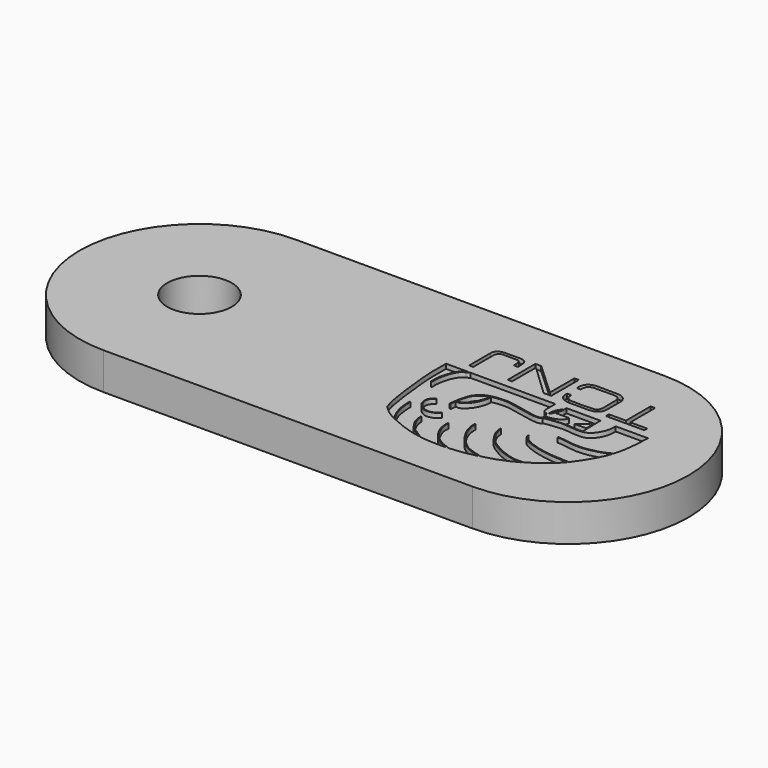
from build123d import *

# Parameters (mm, degrees)
F0_R     = 4.445
F1_DEPTH = 5.08
F4_DEPTH = 0.635
F5_DEPTH = 0.635


with BuildPart() as f1:
    # F0 (on Top) → F1 (new body)
    with BuildSketch(Plane.XY):
        with BuildLine():
            Line((-50.8, 0), (0, 0))
            ThreePointArc((0, 0), (16.51, 16.51), (0, 33.02))
            Line((0, 33.02), (-50.8, 33.02))
            ThreePointArc((-50.8, 33.02), (-67.31, 16.51), (-50.8, 0))
        make_face()
        with Locations((-50.8, 16.51)):
            Circle(F0_R, mode=Mode.SUBTRACT)
    extrude(amount=F1_DEPTH)

    # F2 (on face) → F4 (cut)
    with BuildSketch(Plane.XY.offset(5.08)):
        Polygon((3.8959742524, 26.5396423638), (3.2803672366, 26.5396423638), (3.2803672366, 22.2951937467), (0.9259406943, 22.2951937467), (0.9259406943, 21.7767879367), (6.2180003151, 21.7767879367), (6.2180003151, 22.2735926509), (3.8959742524, 22.2735926509), align=None)
        Polygon((-11.7695769295, 26.5254974365), (-12.5778550282, 26.5254974365), (-12.5778550282, 21.7757243663), (-11.9784576818, 21.7757243663), (-11.9784576818, 25.8897729218), (-7.6464465819, 21.7757243663), (-6.5929596312, 21.7757243663), (-6.5929596312, 26.5254974365), (-7.1923574433, 26.5254974365), (-7.1923574433, 22.302467376), align=None)
        with BuildLine():
            Line((-3.4844169859, 20.5657798797), (-3.5209953785, 20.5657798797))
            add(Edge.make_bspline(
                [(-3.5209953785, 20.1260484755), (-3.5209953785, 20.2726256102), (-3.5209953785, 20.419202745), (-3.5209953785, 20.5657798797)],
                knots=[0, 0, 0, 0, 0.4397314042, 0.4397314042, 0.4397314042, 0.4397314042], degree=3))
            add(Edge.make_bspline(
                [(-3.5209953785, 20.1260484755), (-3.5125215916, 20.1207992214), (-3.5059205511, 20.1117839715), (-3.5009771135, 20.0996034778)],
                knots=[0.5300515962, 0.5300515962, 0.5300515962, 0.5300515962, 0.545285906, 0.545285906, 0.545285906, 0.545285906], degree=3))
            add(Edge.make_bspline(
                [(-3.5009771135, 20.0996034778), (-3.4954461514, 20.2550000435), (-3.489947948, 20.4103833141), (-3.4844169859, 20.5657798797)],
                knots=[0, 0, 0, 0, 0.4664704444, 0.4664704444, 0.4664704444, 0.4664704444], degree=3))
        make_face()
        with BuildLine():
            Line((-17.0272719115, 20.5657798797), (-20.1008506119, 20.5657798797))
            add(Edge.make_bspline(
                [(-20.1008506119, 20.5657798797), (-20.0976057477, 20.2518023674), (-20.089931667, 19.5092477759), (-20.1818699933, 17.6991338011), (-19.6338988516, 12.7321644458), (-19.249263343, 10.1770386249), (-18.9217182084, 9.1986725528), (-18.7855158001, 8.7918406352)],
                knots=[0, 0, 0, 0, 0.1336295588, 0.3160329595, 0.6211985169, 0.8424837716, 1, 1, 1, 1], degree=3))
            add(Edge.make_bspline(
                [(-18.7855158001, 8.7918406352), (-18.4364501478, 8.4448847547), (-17.8097228189, 7.8219453998), (-16.9379454335, 7.3513407769), (-16.5344193103, 7.1553484233)],
                knots=[0, 0, 0, 0, 0.0528862402, 0.0949542066, 0.0949542066, 0.0949542066, 0.0949542066], degree=3))
            add(Edge.make_bspline(
                [(-17.6477935165, 11.2098213285), (-17.6432306992, 10.9404450067), (-17.6334287709, 10.3614181667), (-17.4898095125, 9.2662840687), (-17.1821068853, 8.3674512809), (-16.8816606706, 7.7485775416), (-16.6504011474, 7.3528181668), (-16.5344193103, 7.1553484233)],
                knots=[0, 0, 0, 0, 0.199586321, 0.4289612208, 0.6411573149, 0.8205642233, 1, 1, 1, 1], degree=3))
            add(Edge.make_bspline(
                [(-17.6477935165, 11.2098213285), (-17.5971477749, 11.2234490665), (-17.4724389543, 11.2570056712), (-17.5240421858, 10.9169212611), (-17.5129243505, 10.6843503152), (-17.499469004, 10.3888749345), (-17.4547077805, 10.1214148331), (-17.4253120487, 9.7721919921), (-17.3876432187, 9.5684335846), (-17.2886543053, 9.1477056248), (-17.1871516213, 8.6995724047), (-17.0386427388, 8.2984228965), (-16.8763070803, 7.9657463067), (-16.6932038089, 7.6165407583), (-16.5005710276, 7.2757459948), (-16.3921811837, 7.0870694295)],
                knots=[0, 0, 0, 0, 0.0473613237, 0.1165979451, 0.1850668233, 0.2559309986, 0.3270143483, 0.4045777313, 0.4660095331, 0.552388757, 0.6445833344, 0.7315615457, 0.8117851248, 0.8951023115, 1, 1, 1, 1], degree=3))
            add(Edge.make_bspline(
                [(-16.3921811837, 7.0870694295), (-16.2835296732, 7.035484135), (-15.5695250707, 6.7043616471), (-14.1749353909, 6.1058488683), (-12.6451110082, 5.6895258499), (-11.8734370917, 5.5518033914)],
                knots=[0.0998740707, 0.0998740707, 0.0998740707, 0.0998740707, 0.1111002425, 0.1729905937, 0.2394500603, 0.2394500603, 0.2394500603, 0.2394500603], degree=3))
            add(Edge.make_bspline(
                [(-14.5732332021, 9.3003567308), (-14.5409687138, 8.9795326444), (-14.4797865215, 8.3711634427), (-14.1903751601, 7.7134181332), (-13.4834811075, 6.6021514199), (-12.7620809029, 6.1697490383), (-12.180696926, 5.7654659125), (-11.8734370917, 5.5518033914)],
                knots=[0, 0, 0, 0, 0.1952458387, 0.3702388944, 0.5998494025, 0.7885215088, 1, 1, 1, 1], degree=3))
            add(Edge.make_bspline(
                [(-14.5732332021, 9.3003567308), (-14.531352794, 9.3102664443), (-14.4293106922, 9.3344115765), (-14.4628885161, 9.0586704722), (-14.4062481322, 8.6685886785), (-14.3064258053, 8.3839482517), (-14.1602166183, 7.9777081243), (-13.9919271042, 7.6621536266), (-13.8498664798, 7.3998245088), (-13.6910261105, 7.1637023803), (-13.488956809, 6.8693974321), (-13.1626072296, 6.5746591029), (-12.8828368712, 6.3295756522), (-12.5294233921, 6.1708838371), (-12.2940200964, 5.9544992529), (-11.9514026398, 5.7572063558), (-11.7462669955, 5.5926052754), (-11.6421537077, 5.5127331691)],
                knots=[0, 0, 0, 0, 0.0376484099, 0.0917016962, 0.1660598864, 0.2305953557, 0.3063006735, 0.3763523015, 0.439042774, 0.5004130765, 0.5696997164, 0.6466220038, 0.7178737979, 0.7889260047, 0.8544362849, 0.9268924199, 1, 1, 1, 1], degree=3))
            add(Edge.make_bspline(
                [(-11.6421537077, 5.5127331691), (-10.9619756175, 5.404277864), (-9.7772156071, 5.3151843267), (-8.4711610966, 5.3270091623), (-7.9032367917, 5.3554853854)],
                knots=[0.2461053583, 0.2461053583, 0.2461053583, 0.2461053583, 0.3049431805, 0.3501941998, 0.3501941998, 0.3501941998, 0.3501941998], degree=3))
            add(Edge.make_bspline(
                [(-7.9032367917, 5.3554853854), (-8.3423934262, 5.51025406), (-9.1933444088, 5.8192559494), (-10.1367883833, 6.6575948549), (-10.7141035863, 7.434052346), (-11.3044473223, 8.6130963102), (-11.3260596402, 9.4601064371), (-11.3368527964, 9.8829055205)],
                knots=[0, 0, 0, 0, 0.2127333474, 0.4127366491, 0.5912848478, 0.795890521, 1, 1, 1, 1], degree=3))
            add(Edge.make_bspline(
                [(-11.3368527964, 9.8829055205), (-11.2914570194, 9.893360793), (-11.1838900893, 9.9181349381), (-11.2476755629, 9.6491354067), (-11.201252421, 9.2984248371), (-11.1814995048, 8.9615811835), (-11.0572501427, 8.6001524075), (-10.9663464006, 8.2600597835), (-10.7128817418, 7.8069855296), (-10.5251787396, 7.3401572638), (-10.1588029771, 6.9591051541), (-9.9366250615, 6.6613394337), (-9.6046589896, 6.3875277816), (-9.3374464424, 6.1386088838), (-9.0435103707, 6.0165630221), (-8.6060304939, 5.7515402829), (-8.3079082792, 5.6668984739), (-7.898945806, 5.5119535083), (-7.7110473289, 5.4153977433), (-7.6245295565, 5.3713576571)],
                knots=[0, 0, 0, 0, 0.0324372942, 0.0768579638, 0.136624642, 0.1935678486, 0.2529715568, 0.3110420881, 0.380726384, 0.4507210065, 0.5206539168, 0.5804460709, 0.6440829351, 0.7022873416, 0.7577033874, 0.82645968, 0.8821161692, 0.9457621415, 1, 1, 1, 1], degree=3))
            add(Edge.make_bspline(
                [(-7.6245295565, 5.3713576571), (-7.4127180059, 5.3848823798), (-6.3257212999, 5.4716849077), (-5.137128338, 5.6784233187), (-4.0907214022, 5.9259506898), (-3.9348198087, 5.9643292617)],
                knots=[0.3575988283, 0.3575988283, 0.3575988283, 0.3575988283, 0.3744923424, 0.4445001006, 0.4566898529, 0.4566898529, 0.4566898529, 0.4566898529], degree=3))
            add(Edge.make_bspline(
                [(-8.94193165, 11.5010952577), (-8.9299977481, 11.2441086985), (-8.9054370845, 10.7152159293), (-8.6770360567, 9.8563878542), (-8.2124047565, 8.9603039047), (-7.5314080686, 7.9455663393), (-6.7651803256, 7.0913888776), (-5.5974498737, 6.4164682359), (-4.7516756821, 6.1568515415), (-4.2034372982, 6.0249226263), (-3.9348198087, 5.9643292617)],
                knots=[0, 0, 0, 0, 0.1102915577, 0.2269106467, 0.3526560052, 0.4901779874, 0.6251533603, 0.7687366588, 0.8866218586, 1, 1, 1, 1], degree=3))
            add(Edge.make_bspline(
                [(-8.94193165, 11.5010952577), (-8.8863857194, 11.5161087505), (-8.7504818932, 11.5528421545), (-8.7944538498, 11.1811517577), (-8.768604581, 10.9188425147), (-8.6782070365, 10.4850038321), (-8.5909527515, 10.0771711489), (-8.4032328099, 9.5928802666), (-8.2200885483, 9.2109394657), (-8.0582572094, 8.9729470039), (-7.8140180814, 8.6414128663), (-7.5497818064, 8.1920423419), (-7.279492636, 7.8916505949), (-6.9750681574, 7.5653125645), (-6.7082386794, 7.3495928548), (-6.4589850146, 7.1277345541), (-6.1470216328, 6.8841307056), (-5.8325818803, 6.6820914054), (-5.5376241968, 6.58448582), (-5.1776362739, 6.4422244522), (-4.7409726714, 6.3043316262), (-4.2241570114, 6.1491234993), (-3.8609031002, 6.0689161101), (-3.6775354632, 6.0290396349)],
                knots=[0, 0, 0, 0, 0.0285581683, 0.0698705283, 0.1115177238, 0.161442978, 0.2116237121, 0.2669304425, 0.3164795151, 0.3570195673, 0.4059599553, 0.4612929192, 0.5104270744, 0.561162134, 0.6059361025, 0.6498993961, 0.6982408519, 0.7448186675, 0.7871862355, 0.8343857176, 0.8863308235, 0.942613431, 1, 1, 1, 1], degree=3))
            add(Edge.make_bspline(
                [(-3.6775354632, 6.0290396349), (-2.9715350186, 6.2104328866), (-1.3827322824, 6.6897603661), (-0.0314328843, 7.3367061559), (0.611504016, 7.7118282206)],
                knots=[0.463381065, 0.463381065, 0.463381065, 0.463381065, 0.5183677465, 0.5857584535, 0.5857584535, 0.5857584535, 0.5857584535], degree=3))
            add(Edge.make_bspline(
                [(-6.1262813397, 12.407281436), (-6.0854654696, 12.0804402385), (-6.0016217831, 11.4090452439), (-5.4202277417, 10.4602080885), (-4.8172661864, 9.564151111), (-3.8788921869, 9.0083250417), (-2.7802106055, 8.3050292912), (-1.4866619491, 7.8959169438), (-0.3186171575, 7.629141531), (0.3153171701, 7.6854975548), (0.611504016, 7.7118282206)],
                knots=[0, 0, 0, 0, 0.1175322759, 0.2414340124, 0.3631342228, 0.4852283723, 0.6201406714, 0.7584701774, 0.8871524175, 1, 1, 1, 1], degree=3))
            add(Edge.make_bspline(
                [(-6.1262813397, 12.407281436), (-6.0702699892, 12.4215704428), (-5.9347401843, 12.4561453331), (-5.9425967086, 12.0942191021), (-5.8746314136, 11.7410246111), (-5.777642035, 11.401803881), (-5.5994869987, 10.9669057319), (-5.4135418749, 10.753686915), (-5.2131830245, 10.3928535926), (-4.9234733005, 10.0453165076), (-4.6321850296, 9.6873086376), (-4.3435065437, 9.4724006559), (-4.100814533, 9.2956051497), (-3.8089554719, 9.1338571864), (-3.5308042475, 8.9790153997), (-3.2258754459, 8.7752306582), (-2.786816085, 8.5601805816), (-2.2249526472, 8.294960515), (-1.7107307641, 8.1412346937), (-1.206985109, 7.9573129575), (-0.6300405665, 7.854206569), (-0.1362091758, 7.8008514494), (0.389076208, 7.8001572874), (0.703400262, 7.8355565073), (0.854734614, 7.8574876446)],
                knots=[0, 0, 0, 0, 0.0270101914, 0.0653379727, 0.1093208433, 0.1520881476, 0.2001602669, 0.2381864077, 0.2831164857, 0.3316319934, 0.3800069231, 0.4224034085, 0.4612715767, 0.5021439243, 0.5422305605, 0.5848779558, 0.6348058529, 0.6910646432, 0.7432714002, 0.7953230431, 0.8495941823, 0.9000123633, 0.9513161845, 1, 1, 1, 1], degree=3))
            add(Edge.make_bspline(
                [(0.854734614, 7.8574876446), (1.326742039, 8.1474567885), (2.3074165662, 8.8479489436), (3.5919846077, 9.8459937814), (4.2715076555, 10.6191389839), (4.3900452351, 10.7616474638)],
                knots=[0.594419022, 0.594419022, 0.594419022, 0.594419022, 0.6457412935, 0.7125027921, 0.7270891722, 0.7270891722, 0.7270891722, 0.7270891722], degree=3))
            add(Edge.make_bspline(
                [(-2.8251744807, 13.0221936852), (-2.7822775445, 12.8943941395), (-2.6810350941, 12.5927697174), (-2.1459690578, 11.9763376397), (-0.4404365227, 11.3637066071), (0.6070768854, 11.1418823517), (2.0512171449, 10.8678420634), (3.5445419148, 10.799605626), (4.3900452351, 10.7616474638)],
                knots=[0, 0, 0, 0, 0.0975192655, 0.2301366453, 0.4310036057, 0.5890364082, 0.7671763165, 1, 1, 1, 1], degree=3))
            add(Edge.make_bspline(
                [(-2.8251744807, 13.0221936852), (-2.7704692713, 13.0351403814), (-2.6496555642, 13.0637325096), (-2.6386359101, 12.8060747505), (-2.5260739116, 12.5928584463), (-2.3092140143, 12.4064941266), (-2.106662511, 12.2004984414), (-1.6959262247, 12.0721158467), (-1.3962880884, 11.8507674305), (-1.0262906929, 11.7038148039), (-0.5631132212, 11.5793329316), (-0.2579838615, 11.5192524415), (-0.0028879638, 11.3630065855), (0.3229721648, 11.3295264124), (0.7443861846, 11.2526925719), (1.223948411, 11.1843075336), (1.7828223563, 11.0775949694), (2.2439674263, 11.0326402275), (2.802016824, 10.9893555251), (3.4783704016, 10.9416904828), (4.1460988736, 10.9230475633), (4.5150875531, 10.9148793008)],
                knots=[0, 0, 0, 0, 0.0312503769, 0.068997054, 0.110574262, 0.1544693683, 0.1991262181, 0.2530231259, 0.3038377074, 0.3564886887, 0.4142196331, 0.4606655881, 0.5049831524, 0.5522077209, 0.6065447374, 0.6651251917, 0.7277381284, 0.7845803163, 0.8458850003, 0.9144952799, 1, 1, 1, 1], degree=3))
            add(Edge.make_bspline(
                [(4.5150875531, 10.9148793008), (4.9216259266, 11.4224730753), (5.7690054088, 12.6915925755), (6.5643316316, 14.1001171743), (6.9301713924, 15.0986821574), (7.0102794642, 15.3458950079)],
                knots=[0.7322691124, 0.7322691124, 0.7322691124, 0.7322691124, 0.7832966212, 0.8501506596, 0.8713586465, 0.8713586465, 0.8713586465, 0.8713586465], degree=3))
            add(Edge.make_bspline(
                [(7.0102794642, 15.3458950079), (6.7328062126, 15.1947173109), (6.0447880849, 14.8347548708), (3.8666121305, 14.2883499117), (2.2692197782, 14.3159739847), (0.6450884392, 14.667105861), (0.1782033401, 14.6358520188), (0, 14.6239064634)],
                knots=[0, 0, 0, 0, 0.1758532823, 0.4283784764, 0.6514634376, 0.8668005974, 1, 1, 1, 1], degree=3))
            add(Edge.make_bspline(
                [(0, 14.6239064634), (-0.0134982273, 14.6682188494), (-0.0522931142, 14.7955758689), (0.4401299471, 14.7274758165), (0.7951521918, 14.6963239924), (1.3902453335, 14.6318612146), (1.8495914336, 14.541004569), (2.2051190385, 14.4639675976), (2.7566295187, 14.4622314898), (3.3194654832, 14.4602840898), (3.740841088, 14.4685188635), (4.1335328388, 14.5381259363), (4.5374688928, 14.6310234364), (5.2338267873, 14.7399218149), (5.7392626582, 14.8900371465), (6.1202575687, 15.0303857997), (6.4346461965, 15.2055702107), (6.8307855186, 15.381376479), (7.0552554213, 15.4881238241)],
                knots=[0, 0, 0, 0, 0.0313804398, 0.0901114959, 0.1502556116, 0.2219027876, 0.2860473958, 0.3418831364, 0.4111613642, 0.4820273924, 0.5426562776, 0.6004447029, 0.6610500529, 0.7396406387, 0.8085354963, 0.8665769857, 0.9222463992, 1, 1, 1, 1], degree=3))
            add(Edge.make_bspline(
                [(7.0552554213, 15.4881238241), (7.2184952989, 16.017311729), (7.5716401524, 17.5698744113), (7.6479454512, 19.3973056521), (7.6967356727, 20.5657798797)],
                knots=[0.8754047239, 0.8754047239, 0.8754047239, 0.8754047239, 0.9203327787, 1, 1, 1, 1], degree=3))
            Line((7.6967356727, 20.5657798797), (3.256813623, 20.5657798797))
            add(Edge.make_bspline(
                [(-4.0282612437, 17.1678867191), (-3.8442415846, 17.2119021598), (-3.5239073937, 17.2885225092), (-3.2405147368, 17.2905532656), (-1.6151968376, 17.5698350195), (0.0726213269, 17.2635320354), (1.1276148226, 17.2794433329), (1.7710027907, 17.4066371922), (2.5399058007, 18.0049163234), (3.0720412151, 19.0742778852), (3.244255387, 19.8154742768), (3.2526521068, 20.31714552), (3.256813623, 20.5657798797)],
                knots=[0, 0, 0, 0, 0.0753591631, 0.1311822697, 0.2640234553, 0.4080154074, 0.514619469, 0.5979766582, 0.7006794113, 0.816405469, 0.9090083211, 1, 1, 1, 1], degree=3))
            add(Edge.make_bspline(
                [(-4.0282612437, 17.1678867191), (-4.043939368, 17.1649967721), (-4.0594301641, 17.1620035098), (-4.0751082884, 17.1591135628)],
                knots=[0, 0, 0, 0, 0.0476614506, 0.0476614506, 0.0476614506, 0.0476614506], degree=3))
            add(Edge.make_bspline(
                [(-11.4706885656, 17.5340640748), (-11.2405244345, 17.5982115008), (-10.5932441259, 17.7340752777), (-9.343554156, 17.7594766791), (-8.0983987734, 17.4809950829), (-6.8963392271, 17.2893786615), (-5.5199529435, 16.9448873658), (-4.8005020676, 16.905962838), (-4.2408366778, 16.9328083213), (-4.0976638916, 17.11821645), (-4.0751082884, 17.1591135628)],
                knots=[0.371787444, 0.371787444, 0.371787444, 0.371787444, 0.4277220702, 0.5121514428, 0.5940817812, 0.6755078812, 0.7614671055, 0.8245766866, 0.8814623205, 0.8952400873, 0.8952400873, 0.8952400873, 0.8952400873], degree=3))
            add(Edge.make_bspline(
                [(-13.8062706293, 14.3202794281), (-13.6442041445, 14.3075768818), (-13.301899752, 14.2800233157), (-12.7717023101, 14.5904330535), (-12.4015521208, 14.9944845422), (-12.0303096737, 15.4559501378), (-11.7345995599, 16.1150701829), (-11.4371931443, 16.9446424411), (-11.4604655928, 17.3520908694), (-11.4706885656, 17.5340640748)],
                knots=[0, 0, 0, 0, 0.1270207023, 0.2657842375, 0.400186146, 0.5377432529, 0.693052077, 0.8625447796, 1, 1, 1, 1], degree=3))
            add(Edge.make_bspline(
                [(-13.87732476, 13.5885728523), (-13.8578006243, 13.8324989163), (-13.8382764887, 14.0764249804), (-13.8062706293, 14.3202794281)],
                knots=[0, 0, 0, 0, 0.052866065, 0.052866065, 0.052866065, 0.052866065], degree=3))
            add(Edge.make_bspline(
                [(-13.87732476, 13.5885728523), (-13.9258621881, 13.5885728523), (-13.9743996163, 13.5885728523), (-14.0229370445, 13.5885728523)],
                knots=[0, 0, 0, 0, 0.1456122845, 0.1456122845, 0.1456122845, 0.1456122845], degree=3))
            add(Edge.make_bspline(
                [(-14.0229370445, 13.5885728523), (-13.9828228161, 13.795415069), (-13.9147821297, 14.1462553303), (-13.8928906108, 14.6059711661), (-13.7896113374, 15.0506307183), (-13.690657493, 15.3024726678), (-13.6564540569, 15.6096843556), (-13.4831454964, 16.0113244951), (-13.3856052965, 16.4841220274), (-12.9741609096, 16.8810276297), (-12.5566491584, 17.2875199571), (-11.9762942728, 17.5762633545), (-11.4306863083, 17.7102799088), (-10.6577395637, 17.8648476906), (-10.0600276789, 17.8586682084), (-9.3542245041, 17.9296022774), (-8.2417798078, 17.7126141008), (-7.6414396228, 17.5590981492), (-6.8864664118, 17.4510504338), (-6.3020820338, 17.2808723286), (-5.6325402255, 17.1771044349), (-5.0739571906, 17.0450426419), (-4.6361729346, 17.0379385171), (-4.1824816155, 17.1110279587), (-4.1561798995, 17.5228340216), (-4.1481974641, 17.8557182057), (-4.2493739165, 17.9614946246)],
                knots=[0, 0, 0, 0, 0.0360537797, 0.0684264632, 0.1002287167, 0.1247832538, 0.1507134906, 0.1821099502, 0.2148646764, 0.2502033492, 0.2868208059, 0.3244610912, 0.3605374467, 0.4024304823, 0.4390208365, 0.4792188009, 0.5294792862, 0.5678150512, 0.6085215565, 0.6460472176, 0.6851208398, 0.7210975036, 0.7530189939, 0.7825215021, 0.8112262553, 0.8431283187, 0.8431283187, 0.8431283187, 0.8431283187], degree=3))
            add(Edge.make_bspline(
                [(-4.2493739165, 17.9614946246), (-4.3630264247, 18.0803143206), (-4.8025272248, 18.1358986663), (-5.0386880713, 18.4306695594), (-5.3215678481, 18.6825726829), (-5.2200153878, 20.167800514), (-5.2177999169, 20.5657798797)],
                knots=[0.8431283187, 0.8431283187, 0.8431283187, 0.8431283187, 0.8789642214, 0.9069910172, 0.9355463247, 1, 1, 1, 1], degree=3))
            Line((-5.2177999169, 20.5657798797), (-16.7033448815, 20.5657798797))
            add(Edge.make_bspline(
                [(-17.1761307865, 20.3013475984), (-17.1240982534, 20.3362005365), (-17.0042332306, 20.4164896933), (-16.8120837004, 20.511827513), (-16.7033448815, 20.5657798797)],
                knots=[0, 0, 0, 0, 0.4340927152, 1, 1, 1, 1], degree=3))
            add(Edge.make_bspline(
                [(-18.7855158001, 16.3311585784), (-18.7395982121, 16.3153611825), (-18.5912989757, 16.2643406076), (-18.6785922648, 16.9715198404), (-18.6344215403, 17.3378413016), (-18.5574184913, 17.8967560089), (-18.4212750758, 18.3727041722), (-18.3183884879, 18.8103122414), (-18.1063562024, 19.3117385049), (-17.9087784409, 19.6511871104), (-17.7152574136, 19.9757755433), (-17.4603721975, 20.1638156937), (-17.2710798094, 20.2554059465), (-17.1761307865, 20.3013475984)],
                knots=[0, 0, 0, 0, 0.0492920849, 0.1591977903, 0.2539504544, 0.3592787738, 0.4606037721, 0.5570590987, 0.6621877996, 0.7530026721, 0.8397671716, 0.9196272463, 1, 1, 1, 1], degree=3))
            add(Edge.make_bspline(
                [(-18.7855158001, 16.3311585784), (-18.8044070796, 16.6981095802), (-18.8429639341, 17.4470517758), (-18.5426400466, 18.5863702733), (-18.0999362748, 19.7345041842), (-17.6106517063, 20.2602452896), (-17.2942842146, 20.3994109806), (-17.1153074365, 20.5109270763), (-17.0272719115, 20.5657798797)],
                knots=[0, 0, 0, 0, 0.2014539511, 0.4111648794, 0.6251485996, 0.7833505047, 0.8934339289, 1, 1, 1, 1], degree=3))
        make_face()
        with BuildLine():
            add(Edge.make_bspline(
                [(-15.8585458994, 13.5684683919), (-15.9679984857, 13.5023701182), (-16.189366117, 13.3686864952), (-16.4209586397, 13.0275868277), (-16.5874710503, 12.6870185133), (-16.5456900494, 12.1415176906), (-16.3700060477, 11.6011613598), (-15.9626736677, 11.1601974853), (-15.5774598565, 10.8657003535), (-15.1011743325, 10.6218430814), (-14.5655144331, 10.6574468801), (-14.0203362305, 10.767215418), (-13.5927749784, 11.0824500772), (-13.3997787054, 11.269194268), (-13.3103104308, 11.3557642326)],
                knots=[0, 0, 0, 0, 0.0742327415, 0.1501355674, 0.2230643828, 0.3101222429, 0.40082534, 0.4925284749, 0.5764658161, 0.6623182919, 0.7493350586, 0.838692236, 0.9252217305, 1, 1, 1, 1], degree=3))
            add(Edge.make_bspline(
                [(-15.8585458994, 13.5684683919), (-15.8309000872, 13.5476928037), (-15.760264375, 13.4946106783), (-15.9837201564, 13.3695136783), (-16.1437621798, 13.2901374365), (-16.2686253427, 13.112190175), (-16.3234485665, 12.9882231466), (-16.4206143293, 12.7869385477), (-16.4455841704, 12.6694025701), (-16.45852686, 12.4455863336), (-16.4591198451, 12.2565630007), (-16.4008982037, 12.0670765778), (-16.3341568509, 11.8960238139), (-16.270115321, 11.7306412622), (-16.1464973327, 11.5867507373), (-16.041521421, 11.3977036656), (-15.8587211244, 11.2290671767), (-15.7101022063, 11.1086219942), (-15.5156479561, 10.9739064782), (-15.3319825786, 10.8906603288), (-15.1865517802, 10.799285327), (-14.997096897, 10.793865122), (-14.8419111476, 10.7375986253), (-14.6334672136, 10.7449011241), (-14.363293952, 10.7865581653), (-14.0614171762, 10.8719280333), (-13.8240639967, 11.0376766366), (-13.5595999208, 11.2262741456), (-13.3918426978, 11.4569783435), (-13.3330293363, 11.3839674692), (-13.3103104308, 11.3557642326)],
                knots=[0, 0, 0, 0, 0.0231458806, 0.0591382794, 0.0952088396, 0.1310889516, 0.1616151624, 0.1986032684, 0.2270402401, 0.2643524497, 0.2997228411, 0.335032482, 0.369483321, 0.4029345704, 0.4375027878, 0.4749177434, 0.514538368, 0.5499369276, 0.5886997611, 0.6248210988, 0.6576388041, 0.6918779675, 0.7241992425, 0.7602062791, 0.8024122805, 0.8470397357, 0.890056227, 0.9372797599, 0.9757719135, 1, 1, 1, 1], degree=3))
        make_face(mode=Mode.SUBTRACT)
        with BuildLine():
            add(Edge.make_bspline(
                [(-13.7876647698, 14.4521957571), (-13.7797771646, 14.5042961615), (-13.7152338893, 14.8970969827), (-13.515547148, 15.6115953338), (-13.2408180122, 16.5009253078), (-12.3496061749, 17.2070883531), (-11.9033146479, 17.3983374268), (-11.6643067449, 17.4757856876)],
                knots=[0.0623994689, 0.0623994689, 0.0623994689, 0.0623994689, 0.0736958035, 0.1475722869, 0.2174297244, 0.2929236824, 0.3555217778, 0.3555217778, 0.3555217778, 0.3555217778], degree=3))
            add(Edge.make_bspline(
                [(-11.6643067449, 17.4757856876), (-11.6512781224, 17.3214682811), (-11.6229004835, 16.9853123635), (-11.8585528462, 16.3544944786), (-12.0595929222, 15.8180794169), (-12.3136504775, 15.3024308857), (-12.7922376168, 14.777159234), (-13.3191653499, 14.474952144), (-13.6408461462, 14.4603011369), (-13.7876647698, 14.4521957571)],
                knots=[0, 0, 0, 0, 0.1306596593, 0.2841095028, 0.4274383541, 0.5694421381, 0.727959228, 0.8731898009, 1, 1, 1, 1], degree=3))
        make_face()
        with BuildLine():
            Line((1.1474587955, 20.5657798797), (1.0584822157, 20.5657798797))
            Line((1.0584822157, 20.5657798797), (1.0584822157, 19.5962172002))
            Line((1.0584822157, 19.5962172002), (1.0584822157, 18.2339493185))
            Line((1.0584822157, 18.2339493185), (1.0584822157, 17.4560341984))
            add(Edge.make_bspline(
                [(1.2163205935, 17.4533229789), (1.1638165962, 17.452648842), (1.111149406, 17.4543415202), (1.0584822157, 17.4560341984)],
                knots=[0.9533735058, 0.9533735058, 0.9533735058, 0.9533735058, 1, 1, 1, 1], degree=3))
            add(Edge.make_bspline(
                [(1.1474587955, 20.5657798797), (1.1704127281, 19.5282942466), (1.1933666608, 18.4908086135), (1.2163205935, 17.4533229804)],
                knots=[0, 0, 0, 0, 3.1132185753, 3.1132185753, 3.1132185753, 3.1132185753], degree=3))
        make_face()
        with BuildLine():
            Line((-5.0582760014, 20.5657798797), (-5.2177999169, 20.5657798797))
            add(Edge.make_bspline(
                [(-4.2493739165, 17.9614946246), (-4.3630264247, 18.0803143206), (-4.8025272248, 18.1358986663), (-5.0386880713, 18.4306695594), (-5.3215678481, 18.6825726829), (-5.2200153878, 20.167800514), (-5.2177999169, 20.5657798797)],
                knots=[0.8431283187, 0.8431283187, 0.8431283187, 0.8431283187, 0.8789642214, 0.9069910172, 0.9355463247, 1, 1, 1, 1], degree=3))
            add(Edge.make_bspline(
                [(-4.2493739165, 17.9614946246), (-4.3302190801, 18.0818314354), (-4.4110642436, 18.2021682461), (-4.4919094071, 18.3225050569)],
                knots=[0, 0, 0, 0, 0.4349160797, 0.4349160797, 0.4349160797, 0.4349160797], degree=3))
            add(Edge.make_bspline(
                [(-5.0582760014, 18.8153143972), (-5.0310060385, 18.7124290321), (-4.9775529674, 18.5107588362), (-4.7272812405, 18.3171228258), (-4.5682469673, 18.321644312), (-4.4919094071, 18.3225050569)],
                knots=[0, 0, 0, 0, 0.2714763571, 0.5321329234, 0.7638903837, 0.7638903837, 0.7638903837, 0.7638903837], degree=3))
            Line((-5.0582760014, 18.8153143972), (-5.0582760014, 20.5657798797))
        make_face()
        with BuildLine():
            Line((1.0584822157, 20.5657798797), (-3.4844169859, 20.5657798797))
            add(Edge.make_bspline(
                [(-3.5009771135, 20.0996034778), (-3.4954461514, 20.2550000435), (-3.489947948, 20.4103833141), (-3.4844169859, 20.5657798797)],
                knots=[0, 0, 0, 0, 0.4664704444, 0.4664704444, 0.4664704444, 0.4664704444], degree=3))
            add(Edge.make_bspline(
                [(-3.5009771135, 20.0996034778), (-3.4658399753, 20.0130265397), (-3.5680937941, 19.4944923243), (-3.7246937341, 19.1698120281), (-3.7809135204, 18.9928483562), (-3.7990369234, 18.9423281701)],
                knots=[0.545285906, 0.545285906, 0.545285906, 0.545285906, 0.6535688648, 0.7730784947, 0.8176750116, 0.8176750116, 0.8176750116, 0.8176750116], degree=3))
            Line((-3.7990369234, 18.9423281701), (-1.8836756938, 18.9423281701))
            add(Edge.make_bspline(
                [(-1.8836756938, 18.9423281701), (-1.8757627732, 18.8809801892), (-1.8559064365, 18.7270362517), (-2.0797799781, 18.2898021429), (-2.6401848445, 17.9264949275), (-3.3162159259, 17.7310229391), (-3.7760147665, 17.6506011172), (-4.0053417906, 17.6104903221)],
                knots=[0, 0, 0, 0, 0.1236783986, 0.3103531589, 0.5360127218, 0.7685839712, 1, 1, 1, 1], degree=3))
            add(Edge.make_bspline(
                [(-4.0282612437, 17.2749808407), (-3.9990284201, 17.3777733393), (-3.992834391, 17.4954530654), (-4.0053417906, 17.6104903221)],
                knots=[0.9071795025, 0.9071795025, 0.9071795025, 0.9071795025, 0.9368080891, 0.9368080891, 0.9368080891, 0.9368080891], degree=3))
            add(Edge.make_bspline(
                [(-4.0282612437, 17.2749808407), (-3.9143577853, 17.3037009163), (-3.6404519356, 17.3730532159), (-2.8700941776, 17.4614453576), (-2.1139091058, 17.5290139289), (-1.2904729335, 17.5504664429), (-0.4169906172, 17.4918579003), (0.2521031652, 17.4303531501), (0.8234984334, 17.3593846002), (0.9919007436, 17.4286490121), (1.0584822157, 17.4560341984)],
                knots=[0, 0, 0, 0, 0.0989311017, 0.2381763915, 0.3785703357, 0.5230488553, 0.6718162631, 0.8047533537, 0.9228101188, 1, 1, 1, 1], degree=3))
            Line((1.0584822157, 17.4560341984), (1.0584822157, 18.2339493185))
            Line((1.0584822157, 18.2339493185), (-0.5395716871, 18.2339493185))
            Line((-0.5395716871, 18.2339493185), (1.0584822157, 19.5962172002))
            Line((1.0584822157, 19.5962172002), (1.0584822157, 20.5657798797))
        make_face()
        with BuildLine():
            add(Edge.make_bspline(
                [(-4.2576992743, 18.3691687721), (-4.2598547707, 18.4211950261), (-4.261904265, 18.5600402206), (-4.1992522192, 18.852287957), (-4.1793894608, 19.2041366176), (-4.0552980765, 19.4688724893), (-3.9251804605, 19.7360255498), (-3.7634084715, 19.9398903462), (-3.6040279616, 20.0832614645), (-3.5580006298, 20.0948194967), (-3.5033847545, 20.0730675885), (-3.5197378877, 19.9283600994), (-3.5582686073, 19.7520688039), (-3.6117708188, 19.5754102002), (-3.682445229, 19.3102686099), (-3.7907694271, 19.095007961), (-3.8692533259, 18.8590597723), (-3.9521084182, 18.6902841747), (-4.0760580971, 18.5192961942), (-4.1532803991, 18.429253477), (-4.2216310488, 18.3905794328), (-4.255509004, 18.3714106679)],
                knots=[0.0126492995, 0.0126492995, 0.0126492995, 0.0126492995, 0.0547431639, 0.1222088169, 0.1930064677, 0.2571951754, 0.3217366897, 0.3841848047, 0.437700628, 0.4618540443, 0.4860906729, 0.5290092056, 0.5806545069, 0.63210768, 0.694109297, 0.7534688908, 0.8122013033, 0.8646024843, 0.9188094963, 0.9597579795, 1, 1, 1, 1], degree=3))
            add(Edge.make_bspline(
                [(-4.255509004, 18.3714106679), (-4.2559445975, 18.3706755706), (-4.2572636808, 18.3699038694), (-4.2576992743, 18.3691687721)],
                knots=[0, 0, 0, 0, 0.0031342273, 0.0031342273, 0.0031342273, 0.0031342273], degree=3))
        make_face()
    extrude(amount=-F4_DEPTH, mode=Mode.SUBTRACT)

    # F3 (on face) → F5 (cut)
    with BuildSketch(Plane.XY.offset(5.08)):
        with BuildLine():
            Line((-5.0520161167, 24.9074809253), (-5.0470563583, 24.9749775976))
            add(Edge.make_bspline(
                [(-5.0470563583, 24.9749775976), (-5.0336050614, 25.1388341135), (-5.009538362, 25.4320017934), (-4.9234329452, 25.7232524233), (-4.7041491805, 25.9342860071), (-4.3544342806, 26.0651467997), (-4.127000319, 26.0888666593), (-1.3703441747, 26.1369601443), (-1.1734518273, 26.0781588657), (-0.9329369192, 26.0174595469), (-0.7334178679, 25.9218269309), (-0.5932229423, 25.6962117324), (-0.4742067188, 25.5352879572), (-0.4572435919, 22.9655522731), (-0.5128204774, 22.8563742019), (-0.5427174019, 22.6377148575), (-0.6487754996, 22.5069352695), (-0.794461695, 22.3292726626), (-0.997582448, 22.2646550469), (-1.080678485, 22.1727828562), (-4.4446427479, 22.1149711816), (-4.5486493474, 22.3147631897), (-4.7367292768, 22.4109601645), (-4.8059330466, 22.519360535), (-4.8413267359, 22.574800998)],
                knots=[0, 0, 0, 0, 0.0480589624, 0.0859858055, 0.1243680848, 0.1646014927, 0.2032994763, 0.3188361788, 0.3541130705, 0.3867129104, 0.4202255631, 0.453726237, 0.4885091279, 0.5997396143, 0.6283350227, 0.6586279936, 0.6879666446, 0.7217637813, 0.7516589532, 0.779104818, 0.9062023213, 0.9391233812, 0.9688651624, 1, 1, 1, 1], degree=3))
            add(Edge.make_bspline(
                [(-4.8413267359, 22.574800998), (-4.8858571316, 22.6327226559), (-4.9779213465, 22.75247259), (-5.011835327, 23.0068303376), (-5.0126330414, 23.1730830054), (-5.0130328164, 23.2564006001)],
                knots=[0, 0, 0, 0, 0.3184899428, 0.6584609468, 1, 1, 1, 1], degree=3))
            Line((-5.0130328164, 23.2564006001), (-5.5777356029, 23.2564006001))
            Line((-5.5777356029, 23.2564006001), (-5.5777356029, 22.8685922921))
            add(Edge.make_bspline(
                [(-5.5777356029, 22.8685922921), (-5.5655687409, 22.7638755242), (-5.5425194972, 22.5654971485), (-5.4130542452, 22.350242626), (-5.2848622, 22.1303509946), (-4.9810189888, 21.9539268001), (-4.7868899047, 21.8422032271), (-4.4019592515, 21.7545551595), (-3.9093443415, 21.7010183031), (-3.1190273193, 21.694014409), (-2.3571485907, 21.7131833286), (-1.4630329705, 21.6877886764), (-1.1334581264, 21.742599914), (-0.781663384, 21.8094213586), (-0.4723312734, 21.9434149491), (-0.2010593359, 22.1718283354), (0.0334074879, 22.5224593144), (0.1032087016, 23.0006653587), (0.0973166135, 23.5309386574), (0.0856272343, 24.0569099889), (0.0976239066, 24.786585594), (0.1006964641, 25.3105684844), (0.0406698938, 25.7892464316), (-0.2744883153, 26.2362655733), (-0.6257336866, 26.4671767912), (-1.1104479494, 26.5940426982), (-1.787387495, 26.5911044807), (-2.7319961946, 26.6144839092), (-3.7866491162, 26.6045018901), (-4.3247252929, 26.6157496546), (-4.7765304883, 26.5078918464), (-5.2208297112, 26.2567251989), (-5.4476999173, 25.8771435545), (-5.6155070417, 25.4658592053), (-5.590852411, 25.1013877769), (-5.5777356029, 24.9074809253)],
                knots=[0, 0, 0, 0, 0.0238901528, 0.0452581741, 0.0670475561, 0.0922194384, 0.1129089526, 0.1392991283, 0.1701195801, 0.2082654382, 0.247399927, 0.2878171483, 0.3129172483, 0.3382334041, 0.3633025534, 0.3888366919, 0.4165338216, 0.4464757469, 0.4778248801, 0.5095784473, 0.5465325682, 0.5780845385, 0.6077480093, 0.639138464, 0.6669172366, 0.6968791021, 0.7322589012, 0.7751298987, 0.8197493141, 0.851305179, 0.8803209301, 0.9107847502, 0.9391950685, 0.9676504332, 1, 1, 1, 1], degree=3))
            Line((-5.5777356029, 24.9074809253), (-5.0520161167, 24.9074809253))
        make_face()
        with BuildLine():
            Line((-17.3421185464, 21.7895302922), (-17.3421185464, 25.4843067378))
            add(Edge.make_bspline(
                [(-17.3421185464, 25.4843067378), (-17.3024128959, 25.5602248363), (-17.229976219, 25.6987253949), (-17.1390098056, 25.8270191593), (-16.9246935205, 25.932687999), (-16.9139585253, 26.0666415819), (-14.5994794899, 26.0649320335), (-14.461790826, 25.9790083634), (-14.3051059412, 25.859920651), (-14.2115783608, 25.6412339339), (-14.2082425401, 25.4730601725), (-14.171998928, 25.0709834658), (-14.1476765275, 24.8011574149)],
                knots=[0, 0, 0, 0, 0.0856472712, 0.1562498949, 0.2358263507, 0.2920954021, 0.5521399213, 0.6303199185, 0.7022830072, 0.7847959955, 0.8555806748, 1, 1, 1, 1], degree=3))
            add(Edge.make_bspline(
                [(-14.1476765275, 24.8011574149), (-13.9584476128, 24.8011574149), (-13.7692186981, 24.8011574149), (-13.5799897835, 24.8011574149)],
                knots=[0, 0, 0, 0, 0.567686744, 0.567686744, 0.567686744, 0.567686744], degree=3))
            add(Edge.make_bspline(
                [(-17.9001837969, 25.4458189011), (-17.9084399921, 25.5295406756), (-17.9244291349, 25.6916782446), (-17.8095785549, 25.8743332895), (-17.719167207, 26.0828143826), (-17.5732805859, 26.1986172137), (-17.354211316, 26.3543668851), (-17.1417846127, 26.4446306889), (-17.0424446411, 26.4836777822), (-14.5288439324, 26.5628703085), (-14.4068635895, 26.4708077723), (-14.1733722426, 26.4483481806), (-14.0230209208, 26.3568352589), (-13.8325922944, 26.1997081979), (-13.7392640438, 26.0758977467), (-13.6424001103, 25.8712855864), (-13.6269527007, 25.6428669605), (-13.6187727468, 25.4461587262), (-13.6006492706, 25.0666962257), (-13.5864875685, 24.8846742082), (-13.5799897835, 24.8011574149)],
                knots=[0, 0, 0, 0, 0.0516432978, 0.1000136321, 0.1493598206, 0.1945055403, 0.2499776787, 0.2973361598, 0.3377329973, 0.502360612, 0.5490068041, 0.5956531047, 0.6409526826, 0.6924298212, 0.7342592457, 0.7836290071, 0.8333729458, 0.8807315618, 0.9452763043, 1, 1, 1, 1], degree=3))
            Line((-17.9001837969, 25.4458189011), (-17.9001837969, 21.7895302922))
            Line((-17.9001837969, 21.7895302922), (-17.3421185464, 21.7895302922))
        make_face()
    extrude(amount=-F5_DEPTH, mode=Mode.SUBTRACT)


solid = f1.part
